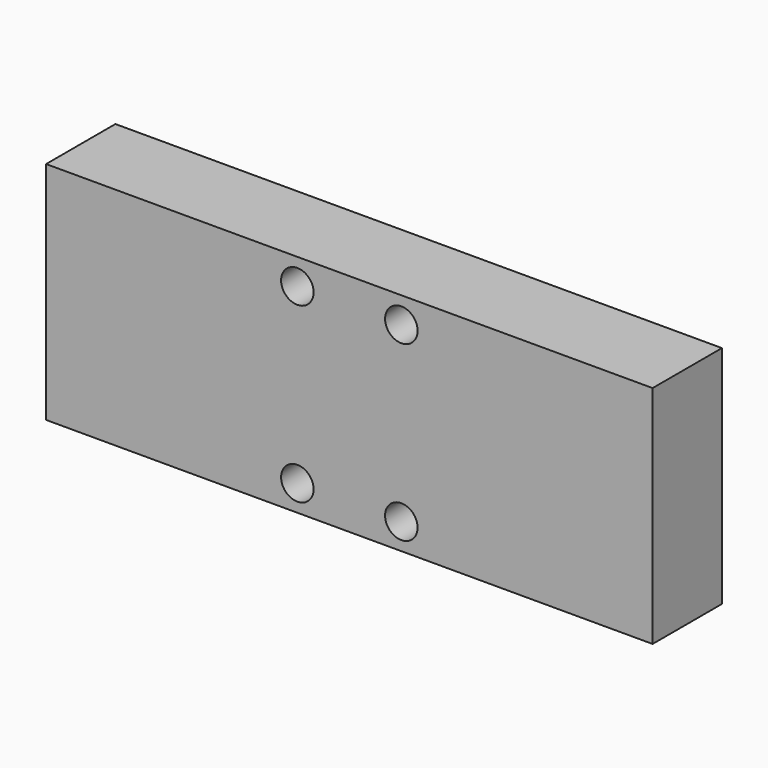
from build123d import *

# Parameters (mm, degrees)
F0_W     = 40
F0_H     = 52
F1_DEPTH = 20
F2_D     = 7.5
F3_W     = 20
F3_H     = 52
F4_DEPTH = 50
F5_W     = 20
F5_H     = 52
F6_DEPTH = 50


with BuildPart() as f1:
    # F0 (on Front) → F1 (new body)
    with BuildSketch(Plane.XZ):
        Rectangle(F0_W, F0_H)
    extrude(amount=F1_DEPTH)

    # F2 (through all)
    with Locations(Plane(origin=(0, 0, 0), x_dir=(1, 0, 0), z_dir=(0, 1, 0))):
        with Locations((12, 20), (-12, 20), (12, -20), (-12, -20)):
            Hole(F2_D / 2)

    # F3 (on face) → F4 (join)
    with BuildSketch(Plane(origin=(-20, 0, 0), x_dir=(0, -1, 0), z_dir=(-1, 0, 0))):
        with Locations((10, 0)):
            Rectangle(F3_W, F3_H)
    extrude(amount=F4_DEPTH)

    # F5 (on face) → F6 (join)
    with BuildSketch(Plane.YZ.offset(20)):
        with Locations((-10, 0)):
            Rectangle(F5_W, F5_H)
    extrude(amount=F6_DEPTH)


solid = f1.part
